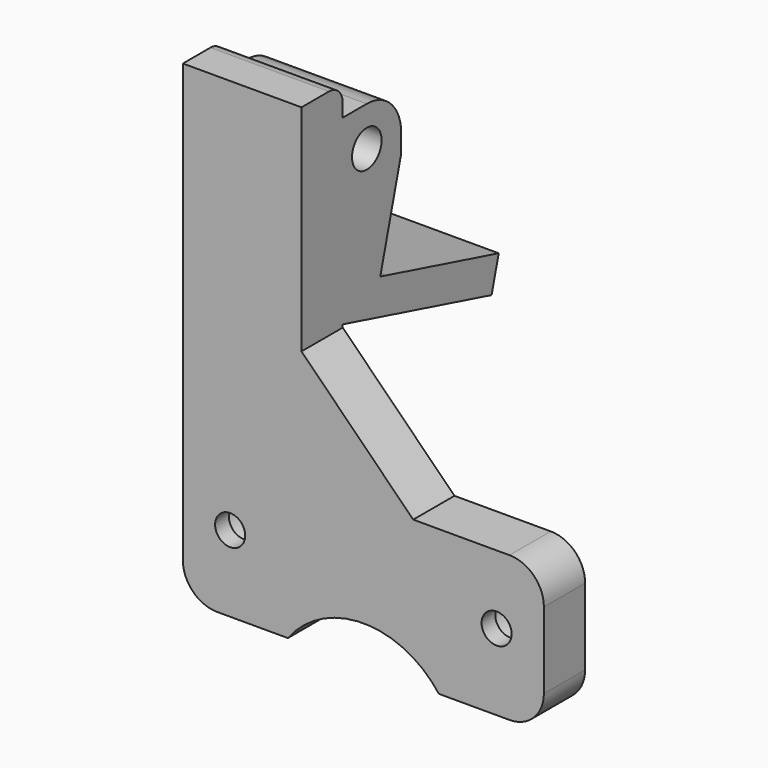
from build123d import *

# Parameters (mm, degrees)
CYLINDER_R           = 2.15
CYLINDER_DEPTH       = 50
CYLINDER_PITCH_ANGLE = 90
BOX002_W             = 14
BOX002_H             = 11
BOX002_DEPTH         = 20.5
CHAMFER_SIZE         = 4
FILLET001_R          = 5
BOX003_W             = 14
BOX003_H             = 25
BOX003_DEPTH         = 4
BOX003_ROLL_ANGLE    = -15
BOX004_W             = 14
BOX004_H             = 2.5
BOX004_DEPTH         = 5
POCKET006_DEPTH      = 15
BOX005003_W          = 42
BOX005003_H          = 6
BOX005003_DEPTH      = 25
SKETCH009_R          = 11
SKETCH009_R_2        = 1.75
POCKET009_DEPTH      = 6
SKETCH010_W          = 62.382877
SKETCH010_H          = 25.148186
POCKET010_DEPTH      = 6
BOX005002_W          = 13.8
BOX005002_H          = 6
BOX005002_DEPTH      = 42
CHAMFER002_SIZE      = 13
FILLET003_R          = 4
FILLET004_R          = 2
SKETCH011_R          = 2.95
POCKET011_DEPTH      = 4


with BuildPart() as cylinder:
    # Cylinder → Cylinder (new body)
    with BuildSketch(Plane.XY):
        Circle(CYLINDER_R)
    extrude(amount=CYLINDER_DEPTH)


with BuildPart() as cylinder_1:
    # Cylinder pitch: moved
    add(cylinder.part.rotate(Axis((0, 0, 0), (0, 1, 0)), CYLINDER_PITCH_ANGLE))


with BuildPart() as cylinder_2:
    # Cylinder placement: moved
    add(cylinder_1.part.moved(Location((31, -6, 12.9))))


with BuildPart() as fillet001:
    # Box002 → Box002 (new body)
    with BuildSketch(Plane(origin=(52, -12, -3), x_dir=(1, 0, 0), z_dir=(0, 0, 1))):
        with Locations((7, 5.5)):
            Rectangle(BOX002_W, BOX002_H)
    extrude(amount=BOX002_DEPTH)

    # Chamfer
    chamfer_edges = [fillet001.edges().sort_by_distance(p)[0] for p in [
        (59, -1, -3),
    ]]
    chamfer(chamfer_edges, length=CHAMFER_SIZE)

    # Fillet001
    fillet001_edges = [fillet001.edges().sort_by_distance(p)[0] for p in [
        (59, -1, 17.5),
    ]]
    fillet(fillet001_edges, radius=FILLET001_R)


with BuildPart() as cube002:
    # Box003 → Box003 (new body)
    with BuildSketch(Plane.XY):
        with Locations((7, 12.5)):
            Rectangle(BOX003_W, BOX003_H)
    extrude(amount=BOX003_DEPTH)


with BuildPart() as cube002_1:
    # Box003 roll: moved
    add(cube002.part.rotate(Axis((0, 0, 0), (1, 0, 0)), BOX003_ROLL_ANGLE))


with BuildPart() as cube002_2:
    # Box003 placement: moved
    add(cube002_1.part.moved(Location((52, -12, -3))))


with BuildPart() as obj1:
    # Box004 → Box004 (new body)
    with BuildSketch(Plane(origin=(52, -12, 14), x_dir=(1, 0, 0), z_dir=(0, 0, 1))):
        with Locations((7, 1.25)):
            Rectangle(BOX004_W, BOX004_H)
    extrude(amount=BOX004_DEPTH)

    # Fusion: union Fillet001, Cube002
    add(fillet001.part)
    add(cube002_2.part)

    # Cut001: cut Cylinder
    add(cylinder_2.part, mode=Mode.SUBTRACT)

    # Sketch006 → Pocket006 (cut)
    with BuildSketch(Plane.YZ.offset(66)):
        Polygon((13.183422, -5.606773), (-4.041064, -0.991486), (-0.407217, 12.570217), align=None)
    extrude(amount=-POCKET006_DEPTH, mode=Mode.SUBTRACT)


with BuildPart() as pocket010:
    # Box005003 → Box005003 (new body)
    with BuildSketch(Plane(origin=(52.2, -15.5, -42), x_dir=(1, 0, 0), z_dir=(0, 0, 1))):
        with Locations((21, 3)):
            Rectangle(BOX005003_W, BOX005003_H)
    extrude(amount=BOX005003_DEPTH)

    # Sketch009 → Pocket009 (cut)
    with BuildSketch(Plane(origin=(52.2, -9.5, -42), x_dir=(-1, 0, 0), z_dir=(0, 1, 0))):
        with Locations((-21, 1.5)):
            Circle(SKETCH009_R)
        with Locations((-36.5, 17)):
            Circle(SKETCH009_R_2)
        with Locations((-5.5, 17)):
            Circle(SKETCH009_R_2)
    extrude(amount=-POCKET009_DEPTH, mode=Mode.SUBTRACT)

    # Sketch010 → Pocket010 (cut)
    with BuildSketch(Plane(origin=(52.2, -9.5, -42), x_dir=(-1, 0, 0), z_dir=(0, 1, 0))):
        with Locations((-19.46246, -4.449775)):
            Rectangle(SKETCH010_W, SKETCH010_H)
    extrude(amount=-POCKET010_DEPTH, mode=Mode.SUBTRACT)


with BuildPart() as pocket011:
    # Box005002 → Box005002 (new body)
    with BuildSketch(Plane(origin=(52.2, -15.5, -21), x_dir=(1, 0, 0), z_dir=(0, 0, 1))):
        with Locations((6.9, 3)):
            Rectangle(BOX005002_W, BOX005002_H)
    extrude(amount=BOX005002_DEPTH)

    # Fusion005: union obj1, Pocket010
    add(obj1.part)
    add(pocket010.part)

    # Chamfer002
    chamfer002_edges = [pocket011.edges().sort_by_distance(p)[0] for p in [
        (66, -12.5, -17),
    ]]
    chamfer(chamfer002_edges, length=CHAMFER002_SIZE)

    # Fillet003
    fillet003_edges = [pocket011.edges().sort_by_distance(p)[0] for p in [
        (94.2, -12.5, -17),
        (94.2, -12.5, -33.875682),
        (52.2, -12.5, -33.875682),
    ]]
    fillet(fillet003_edges, radius=FILLET003_R)

    # Fillet004
    fillet004_edges = [pocket011.edges().sort_by_distance(p)[0] for p in [
        (59.1, -9.5, 21),
    ]]
    fillet(fillet004_edges, radius=FILLET004_R)

    # Sketch011 → Pocket011 (cut)
    with BuildSketch(Plane(origin=(0, -9.5, 0), x_dir=(-1, 0, 0), z_dir=(0, 1, 0))):
        with Locations((-88.7, -25)):
            Circle(SKETCH011_R)
        with Locations((-57.7, -25)):
            Circle(SKETCH011_R)
    extrude(amount=-POCKET011_DEPTH, mode=Mode.SUBTRACT)


solid = pocket011.part
